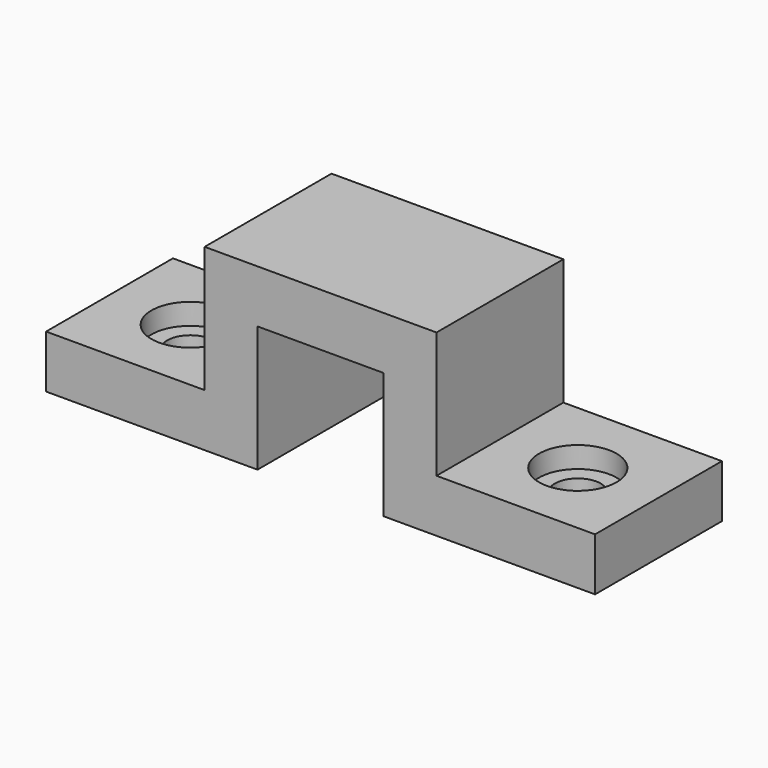
from build123d import *

# Parameters (mm, degrees)
F1_DEPTH = 5.715
F2_R     = 1.651
F3_DEPTH = 3.811
F2_R_2   = 2.794
F4_DEPTH = 1.524


with BuildPart() as f1:
    # F0 (on Front) → F1 (new body, symmetric)
    with BuildSketch(Plane.XZ):
        Polygon((-19.7866, 3.81), (-19.7866, 0), (-4.5466, 0), (-4.5466, 9.0932), (4.5466, 9.0932), (4.5466, 0), (19.7866, 0), (19.7866, 3.81), (8.3566, 3.81), (8.3566, 12.9032), (-8.3566, 12.9032), (-8.3566, 3.81), align=None)
    extrude(amount=F1_DEPTH, both=True)

    # F2 (on face) → F3 (cut, through all)
    with BuildSketch(Plane.XY.offset(3.81)):
        with Locations((-13.97, 0)):
            Circle(F2_R)
        with Locations((13.97, 0)):
            Circle(F2_R)
    extrude(amount=-F3_DEPTH, mode=Mode.SUBTRACT)

    # F2 (on face) → F4 (cut)
    with BuildSketch(Plane.XY.offset(3.81)):
        with Locations((13.97, 0)):
            Circle(F2_R_2)
        with Locations((13.97, 0)):
            Circle(F2_R, mode=Mode.SUBTRACT)
        with Locations((-13.97, 0)):
            Circle(F2_R_2)
        with Locations((-13.97, 0)):
            Circle(F2_R, mode=Mode.SUBTRACT)
    extrude(amount=-F4_DEPTH, mode=Mode.SUBTRACT)


solid = f1.part
